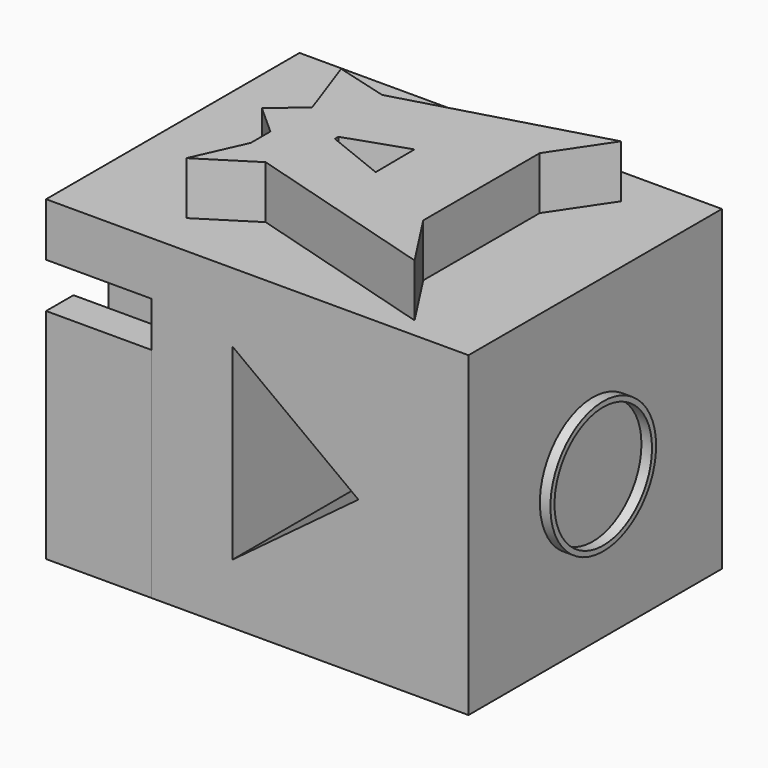
from build123d import *

# Parameters (mm, degrees)
F0_W      = 76.2
F0_H      = 76.2
F1_DEPTH  = 76.2
F2_W      = 12.539256
F2_H      = 53.205002
F2_W_2    = 12.878159
F2_W_3    = 8.237785
F2_H_2    = 52.527204
F2_W_4    = 8.993818
F2_H_3    = 53.543892
F2_W_5    = 76.2
F2_H_4    = 12.828036
F3_DEPTH  = 25.4
F5_DEPTH  = 254
F7_DEPTH  = 12.7
F9_DEPTH  = 7.62
F10_R     = 15.886225
F10_R_2   = 14.655787
F11_DEPTH = 2.54


with BuildPart() as f1:
    # F0 (on Top) → F1 (new body)
    with BuildSketch(Plane.XY):
        with Locations((38.1, 38.1)):
            Rectangle(F0_W, F0_H)
    extrude(amount=F1_DEPTH)

    # F2 (on face) → F3 (join)
    with BuildSketch(Plane(origin=(0, 0, 0), x_dir=(0, -1, 0), z_dir=(-1, 0, 0))):
        with Locations((-49.752893, 26.602501)):
            Rectangle(F2_W, F2_H)
        with Locations((-25.182727, 26.602501)):
            Rectangle(F2_W_2, F2_H)
        with Locations((-4.118892, 26.263602)):
            Rectangle(F2_W_3, F2_H_2)
        with Locations((-71.703091, 26.771946)):
            Rectangle(F2_W_4, F2_H_3)
        with Locations((-38.1, 69.785982)):
            Rectangle(F2_W_5, F2_H_4)
    extrude(amount=F3_DEPTH)

    # F4 (on face) → F5 (cut)
    with BuildSketch(Plane.XZ):
        Polygon((49.715646, 37.017897), (19.429348, 59.589423), (19.429348, 14.446371), align=None)
    extrude(amount=-F5_DEPTH, mode=Mode.SUBTRACT)

    # F6 (on face) → F7 (join)
    with BuildSketch(Plane.XY.offset(76.2)):
        Polygon((59.441991, 4.737339), (50.535221, 18.474905), (50.535221, 53.498153), (59.441991, 66.782832), (12.64369, 53.498153), (12.64369, 48.818324), (5.548463, 48.818324), (5.548463, 41.278802), (5.548463, 28.747914), (5.548463, 22.852812), (12.64369, 22.852812), (12.64369, 18.474905), align=None)
        Polygon((0, 10.469685), (12.64369, 18.474905), (12.64369, 22.852812), (5.548463, 22.852812), align=None)
        Polygon((12.64369, 48.818324), (12.64369, 53.498153), (0, 56.967318), (5.548463, 41.278802), (5.548463, 48.818324), align=None)
        Polygon((5.548463, 28.747914), (5.548463, 41.278802), (-1.681807, 35.226036), align=None)
    extrude(amount=F7_DEPTH)

    # F8 (on face) → F9 (cut)
    with BuildSketch(Plane.XY.offset(88.9)):
        Polygon((16.839748, 35.066836), (16.839748, 34.013547), (31.31187, 28.2102), (31.218205, 39.986227), align=None)
    extrude(amount=-F9_DEPTH, mode=Mode.SUBTRACT)

    # F10 (on face) → F11 (join)
    with BuildSketch(Plane.YZ.offset(76.2)):
        with Locations((37.34519, 36.212973)):
            Circle(F10_R)
        with Locations((37.34519, 36.212973)):
            Circle(F10_R_2, mode=Mode.SUBTRACT)
    extrude(amount=F11_DEPTH)


solid = f1.part
